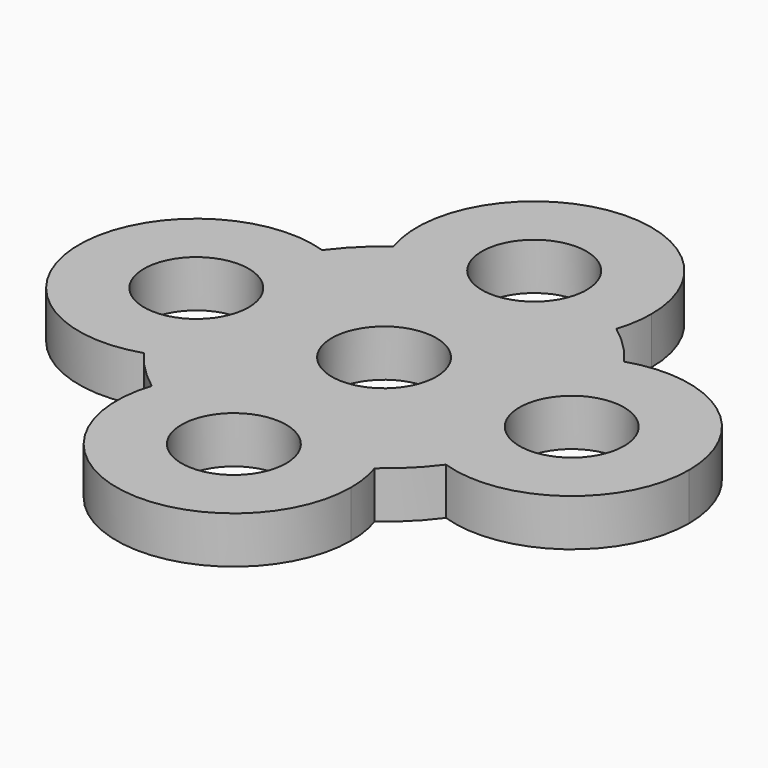
from build123d import *

# Parameters (mm, degrees)
F0_R     = 11.15
F1_DEPTH = 10


with BuildPart() as f1:
    # F0 (on Top) → F1 (new body)
    with BuildSketch(Plane.XY):
        with BuildLine():
            ThreePointArc((38.44596875, -11.0411723505), (28.85, 0), (38.44596875, 11.0411723505))
            ThreePointArc((38.44596875, 11.0411723505), (35.883662554, 17.6737874184), (32.1875, 23.74794399))
            ThreePointArc((32.1875, 23.74794399), (15, 0), (32.1875, -23.74794399))
            ThreePointArc((32.1875, -23.74794399), (35.883662554, -17.6737874184), (38.44596875, -11.0411723505))
        make_face()
        with BuildLine():
            ThreePointArc((32.1875, 23.74794399), (35.883662554, 17.6737874184), (38.44596875, 11.0411723505))
            ThreePointArc((38.44596875, 11.0411723505), (47.3142002831, 8.4157574952), (51.15, 0))
            ThreePointArc((51.15, 0), (47.3142002831, -8.4157574952), (38.44596875, -11.0411723505))
            ThreePointArc((38.44596875, -11.0411723505), (35.883662554, -17.6737874184), (32.1875, -23.74794399))
            ThreePointArc((32.1875, -23.74794399), (54.6575492494, -20.2523146825), (65, 0))
            ThreePointArc((65, 0), (54.6575492494, 20.2523146825), (32.1875, 23.74794399))
        make_face()
        with BuildLine():
            ThreePointArc((32.1875, -23.74794399), (15, 0), (32.1875, 23.74794399))
            ThreePointArc((32.1875, 23.74794399), (28.2842712475, 28.2842712475), (23.74794399, 32.1875))
            ThreePointArc((23.74794399, 32.1875), (0, 15), (-23.74794399, 32.1875))
            ThreePointArc((-23.74794399, 32.1875), (-28.2842712475, 28.2842712475), (-32.1875, 23.74794399))
            ThreePointArc((-32.1875, 23.74794399), (-19.7476853175, 14.6575492494), (-15, 0))
            ThreePointArc((-15, 0), (-19.7476853175, -14.6575492494), (-32.1875, -23.74794399))
            ThreePointArc((-32.1875, -23.74794399), (-28.2842712475, -28.2842712475), (-23.74794399, -32.1875))
            ThreePointArc((-23.74794399, -32.1875), (0, -15), (23.74794399, -32.1875))
            ThreePointArc((23.74794399, -32.1875), (28.2842712475, -28.2842712475), (32.1875, -23.74794399))
        make_face()
        Circle(F0_R, mode=Mode.SUBTRACT)
        with BuildLine():
            ThreePointArc((-23.74794399, 32.1875), (0, 15), (23.74794399, 32.1875))
            ThreePointArc((23.74794399, 32.1875), (17.6737874184, 35.883662554), (11.0411723505, 38.44596875))
            ThreePointArc((11.0411723505, 38.44596875), (0, 28.85), (-11.0411723505, 38.44596875))
            ThreePointArc((-11.0411723505, 38.44596875), (-17.6737874184, 35.883662554), (-23.74794399, 32.1875))
        make_face()
        with BuildLine():
            ThreePointArc((11.0411723505, 38.44596875), (17.6737874184, 35.883662554), (23.74794399, 32.1875))
            ThreePointArc((23.74794399, 32.1875), (24.6850015166, 36.0439034231), (25, 40))
            ThreePointArc((25, 40), (-3.9560965769, 64.6850015166), (-23.74794399, 32.1875))
            ThreePointArc((-23.74794399, 32.1875), (-17.6737874184, 35.883662554), (-11.0411723505, 38.44596875))
            ThreePointArc((-11.0411723505, 38.44596875), (-0.7789185746, 51.1227598128), (11.15, 40))
            ThreePointArc((11.15, 40), (11.1227598128, 39.2210814254), (11.0411723505, 38.44596875))
        make_face()
        with BuildLine():
            ThreePointArc((25, -40), (24.6850015166, -36.0439034231), (23.74794399, -32.1875))
            ThreePointArc((23.74794399, -32.1875), (17.6737874184, -35.883662554), (11.0411723505, -38.44596875))
            ThreePointArc((11.0411723505, -38.44596875), (11.1227598128, -39.2210814254), (11.15, -40))
            ThreePointArc((11.15, -40), (-0.7789185746, -51.1227598128), (-11.0411723505, -38.44596875))
            ThreePointArc((-11.0411723505, -38.44596875), (-17.6737874184, -35.883662554), (-23.74794399, -32.1875))
            ThreePointArc((-23.74794399, -32.1875), (-3.9560965769, -64.6850015166), (25, -40))
        make_face()
        with BuildLine():
            ThreePointArc((11.0411723505, -38.44596875), (17.6737874184, -35.883662554), (23.74794399, -32.1875))
            ThreePointArc((23.74794399, -32.1875), (0, -15), (-23.74794399, -32.1875))
            ThreePointArc((-23.74794399, -32.1875), (-17.6737874184, -35.883662554), (-11.0411723505, -38.44596875))
            ThreePointArc((-11.0411723505, -38.44596875), (0, -28.85), (11.0411723505, -38.44596875))
        make_face()
        with BuildLine():
            ThreePointArc((-15, 0), (-19.7476853175, 14.6575492494), (-32.1875, 23.74794399))
            ThreePointArc((-32.1875, 23.74794399), (-35.883662554, 17.6737874184), (-38.44596875, 11.0411723505))
            ThreePointArc((-38.44596875, 11.0411723505), (-31.5842425048, 7.3142002831), (-28.85, 0))
            ThreePointArc((-28.85, 0), (-31.5842425048, -7.3142002831), (-38.44596875, -11.0411723505))
            ThreePointArc((-38.44596875, -11.0411723505), (-35.883662554, -17.6737874184), (-32.1875, -23.74794399))
            ThreePointArc((-32.1875, -23.74794399), (-19.7476853175, -14.6575492494), (-15, 0))
        make_face()
        with BuildLine():
            ThreePointArc((-38.44596875, 11.0411723505), (-35.883662554, 17.6737874184), (-32.1875, 23.74794399))
            ThreePointArc((-32.1875, 23.74794399), (-65, 0), (-32.1875, -23.74794399))
            ThreePointArc((-32.1875, -23.74794399), (-35.883662554, -17.6737874184), (-38.44596875, -11.0411723505))
            ThreePointArc((-38.44596875, -11.0411723505), (-51.15, 0), (-38.44596875, 11.0411723505))
        make_face()
    extrude(amount=F1_DEPTH)


solid = f1.part
